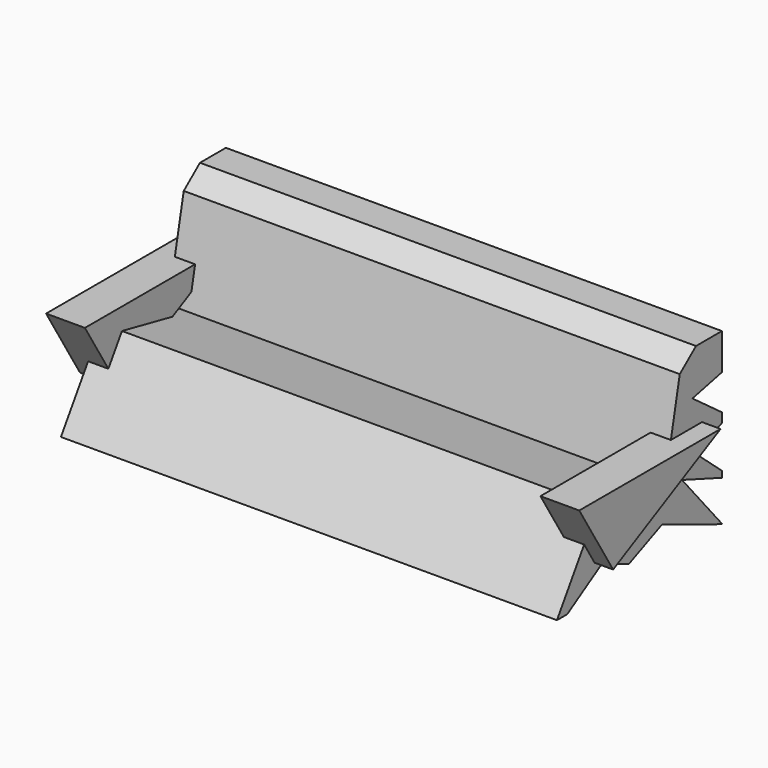
from build123d import *

# Parameters (mm, degrees)
F0_W          = 293.8216626644
F0_H          = 101.1411622167
F1_DEPTH      = 61.5
F4_DEPTH      = 334
F6_DEPTH      = 12
F6_DEPTH_BACK = 11
F8_SIZE       = 10
F10_DEPTH     = 185


with BuildPart() as f1:
    # F0 (on Front) → F1 (new body, symmetric)
    with BuildSketch(Plane.XZ):
        Rectangle(F0_W, F0_H)
    extrude(amount=F1_DEPTH, both=True)

    # F3 (on face) → F4 (cut)
    with BuildSketch(Plane.YZ.offset(146.9108313322)):
        Polygon((18.9473703504, -13.9144742861), (34.342110157, 60.3947378695), (-66.0197362304, 65.4276311398), (-66.0197362304, -58.914475143), (-30.4582760151, -3.6790398264), align=None)
    extrude(amount=-F4_DEPTH, mode=Mode.SUBTRACT)

    # F7: F1 across plane


with BuildPart() as f6:
    # F5 (on face) → F6 (new body, two sides)
    with BuildSketch(Plane.YZ.offset(146.9108313322)) as f6_sk:
        Polygon((-57.8868165612, 9.0928608552), (-32.7925831079, -31.9061651826), (46.7313863337, 9.0928608552), align=None)
    extrude(amount=-F6_DEPTH)
    extrude(f6_sk.sketch, amount=F6_DEPTH_BACK)


with BuildPart() as f1_1:
    add(f1.part)
    add(f1.part.mirror(Plane.YZ))

    # F8
    f8_edges = [f1_1.edges().sort_by_distance(p)[0] for p in [
        (0, 32.306826, 50.570581),
    ]]
    chamfer(f8_edges, length=F8_SIZE)

    # F9 (on Right) → F10 (cut, symmetric)
    with BuildSketch(Plane.YZ):
        Polygon((78.7500068545, -65.2264166398), (69.2763254046, 30.7894740254), (39.6710522473, 24.2763161659), (66.6118487716, 4.4407895766), (41.1513186991, -4.7368425876), (68.980269134, -28.7171080709), (31.9736860693, -15.0986844674), (61.8749968708, -50.328951329), (17.1710532159, -32.2697386146), (-7.4013168924, -42.927633971), (-27.236841619, -34.638158977), (-55.0657920539, -51.8092103302), (-46.7870918171, -65.2264166398), align=None)
    extrude(amount=F10_DEPTH, both=True, mode=Mode.SUBTRACT)


with BuildPart() as f11_1:
    # F11: instance of F6
    add(f6.part.mirror(Plane.YZ))


solid = Compound([f6.part, f1_1.part, f11_1.part])
